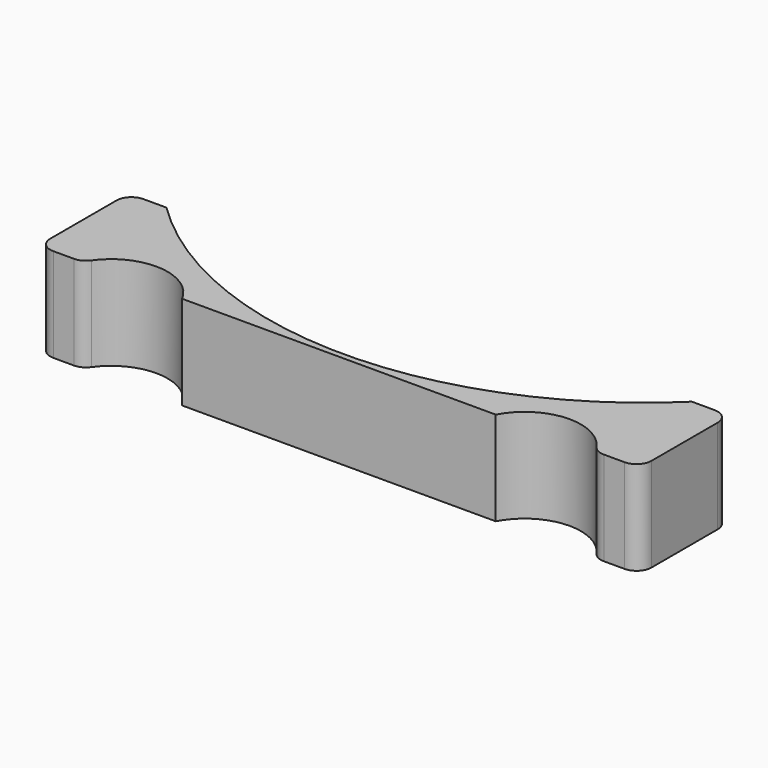
from build123d import *

# Parameters (mm, degrees)
CYLINDER032_R     = 15
CYLINDER032_DEPTH = 25
CYLINDER030_R     = 100
CYLINDER030_DEPTH = 25
CYLINDER031_R     = 15
CYLINDER031_DEPTH = 25
BOX008_W          = 160
BOX008_H          = 30
BOX008_DEPTH      = 25
FILLET034_R       = 4


with BuildPart() as cylinder032:
    # Cylinder032 → Cylinder032 (new body)
    with BuildSketch(Plane(origin=(55, -107, 0), x_dir=(1, 0, 0), z_dir=(0, 0, 1))):
        Circle(CYLINDER032_R)
    extrude(amount=CYLINDER032_DEPTH)


with BuildPart() as cylinder030:
    # Cylinder030 → Cylinder030 (new body)
    with BuildSketch(Plane(origin=(0, 1.5, 0), x_dir=(1, 0, 0), z_dir=(0, 0, 1))):
        Circle(CYLINDER030_R)
    extrude(amount=CYLINDER030_DEPTH)


with BuildPart() as fusion013:
    # Cylinder031 → Cylinder031 (new body)
    with BuildSketch(Plane(origin=(-55, -107, 0), x_dir=(1, 0, 0), z_dir=(0, 0, 1))):
        Circle(CYLINDER031_R)
    extrude(amount=CYLINDER031_DEPTH)

    # Fusion013: union Cylinder032, Cylinder030
    add(cylinder032.part)
    add(cylinder030.part)


with BuildPart() as holder:
    # Box008 → Box008 (new body)
    with BuildSketch(Plane(origin=(-80, -100, 0), x_dir=(1, 0, 0), z_dir=(0, 0, 1))):
        with Locations((80, 15)):
            Rectangle(BOX008_W, BOX008_H)
    extrude(amount=BOX008_DEPTH)

    # Cut020: cut Fusion013
    add(fusion013.part, mode=Mode.SUBTRACT)

    # Fillet034
    fillet034_edges = [holder.edges().sort_by_distance(p)[0] for p in [
        (-80, -100, 12.5),
        (-80, -70, 12.5),
        (-68.266499, -100, 12.5),
        (80, -70, 12.5),
        (80, -100, 12.5),
        (68.266499, -100, 12.5),
    ]]
    fillet(fillet034_edges, radius=FILLET034_R)


solid = holder.part
